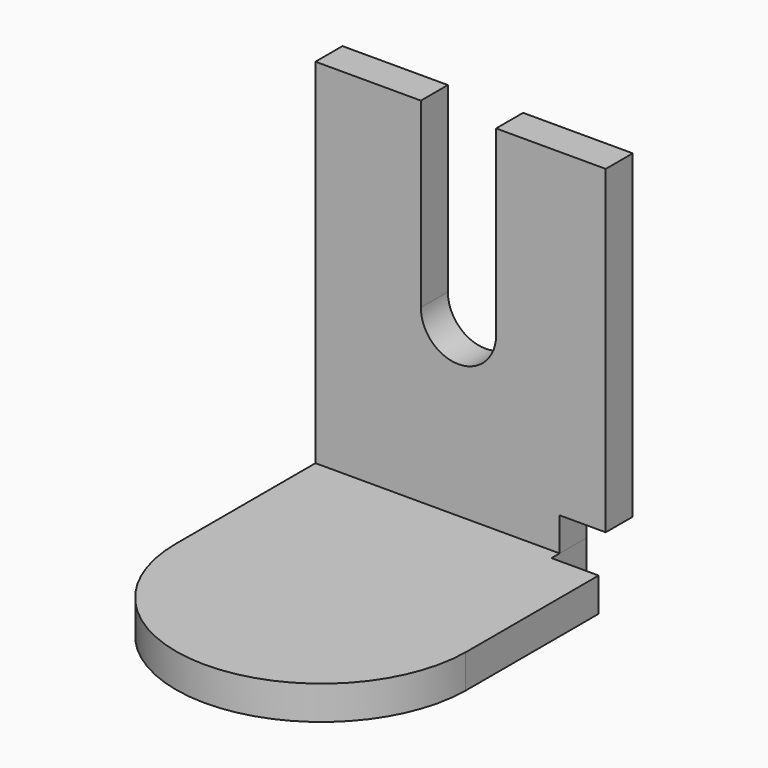
from build123d import *

# Parameters (mm, degrees)
F2_DEPTH = 6.35
F3_DEPTH = 6.35


with BuildPart() as f2:
    # F0 (on Front) → F2 (new body)
    with BuildSketch(Plane.XZ):
        with BuildLine():
            Line((0, 72.836004), (0, 0))
            Line((0, 0), (45.933511, 0))
            Line((45.933511, 0), (45.933511, 12.654135))
            Line((45.933511, 12.654135), (54.602094, 12.654135))
            Line((54.602094, 12.654135), (54.602094, 72.836004))
            Line((54.602094, 72.836004), (33.976849, 72.836004))
            Line((33.976849, 72.836004), (33.976849, 38.560238))
            ThreePointArc((33.976849, 38.560238), (26.902491, 31.48588), (19.828133, 38.560238))
            Line((19.828133, 38.560238), (19.828133, 72.836004))
            Line((19.828133, 72.836004), (0, 72.836004))
        make_face()
    extrude(amount=F2_DEPTH)


with BuildPart() as f3:
    # F1 (on Top) → F3 (new body)
    with BuildSketch(Plane.XY):
        with BuildLine():
            Line((45.933511, 0), (0, 0))
            Line((0, 0), (0, -39.158069))
            ThreePointArc((0, -39.158069), (27.202849, -66.559477), (54.801367, -39.556626))
            Line((54.801367, -39.556626), (54.801367, -8.270025))
            Line((54.801367, -8.270025), (45.933511, -8.270025))
            Line((45.933511, -8.270025), (45.933511, 0))
        make_face()
    extrude(amount=F3_DEPTH)


solid = Compound([f2.part, f3.part])
